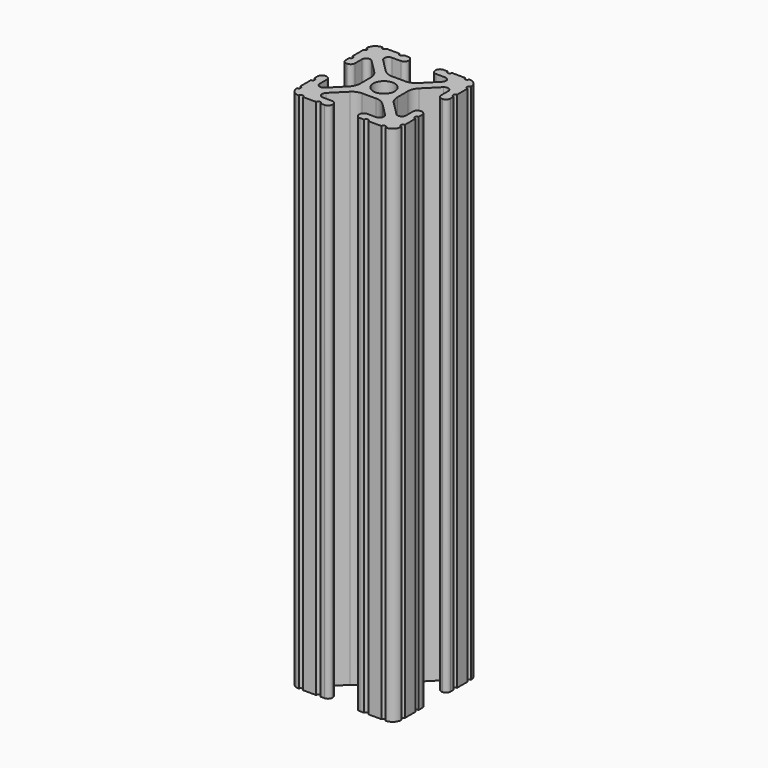
from build123d import *

# Parameters (mm, degrees)
SKETCH097_R   = 2.6035
EXTRUDE_DEPTH = 127


with BuildPart() as part:
    # Sketch097 → Extrude (new body)
    with BuildSketch(Plane.XY):
        with BuildLine():
            ThreePointArc((12.7, 6.333084), (12.192, 5.825084), (12.7, 5.317084))
            Line((12.7, 4.287469), (12.7, 5.317084))
            ThreePointArc((11.650988, 3.238457), (12.392751, 3.545706), (12.7, 4.287469))
            Line((11.539212, 3.238457), (11.650988, 3.238457))
            ThreePointArc((10.4902, 4.287469), (10.797449, 3.545706), (11.539212, 3.238457))
            Line((10.4902, 6.402089), (10.4902, 4.287469))
            ThreePointArc((10.4902, 6.402089), (9.856505, 7.351068), (8.737131, 7.129409))
            Line((5.441006, 3.840816), (8.737131, 7.129409))
            ThreePointArc((5.441006, 3.840816), (4.750878, 2.809883), (4.5085, 1.593186))
            Line((4.5085, -1.593186), (4.5085, 1.593186))
            ThreePointArc((4.5085, -1.593186), (4.750878, -2.809883), (5.441006, -3.840816))
            Line((8.737131, -7.129409), (5.441006, -3.840816))
            ThreePointArc((8.737131, -7.129409), (9.856505, -7.351068), (10.4902, -6.402089))
            Line((10.4902, -4.287469), (10.4902, -6.402089))
            ThreePointArc((11.539212, -3.238457), (10.797449, -3.545706), (10.4902, -4.287469))
            Line((11.650988, -3.238457), (11.539212, -3.238457))
            ThreePointArc((12.7, -4.287469), (12.392751, -3.545706), (11.650988, -3.238457))
            Line((12.7, -5.317084), (12.7, -4.287469))
            ThreePointArc((12.7, -5.317084), (12.192, -5.825084), (12.7, -6.333084))
            Line((12.7, -9.5504), (12.7, -6.333084))
            ThreePointArc((12.7, -9.5504), (12.192, -10.058323), (12.699847, -10.5664))
            ThreePointArc((10.566443, -12.699848), (12.082538, -12.082507), (12.699847, -10.5664))
            ThreePointArc((10.566443, -12.699848), (10.058367, -12.192), (9.550443, -12.7))
            Line((6.333127, -12.7), (9.550443, -12.7))
            ThreePointArc((6.333127, -12.7), (5.825127, -12.192), (5.317127, -12.7))
            Line((4.287512, -12.7), (5.317127, -12.7))
            ThreePointArc((3.2385, -11.650988), (3.545749, -12.392751), (4.287512, -12.7))
            Line((3.2385, -11.539212), (3.2385, -11.650988))
            ThreePointArc((4.287512, -10.4902), (3.545749, -10.797449), (3.2385, -11.539212))
            Line((6.416408, -10.4902), (4.287512, -10.4902))
            ThreePointArc((6.416408, -10.4902), (7.414731, -9.822813), (7.17965, -8.645193))
            Line((3.95227, -5.42369), (7.17965, -8.645193))
            ThreePointArc((3.95227, -5.42369), (2.922936, -4.736929), (1.709254, -4.4958))
            Line((-1.709254, -4.4958), (1.709254, -4.4958))
            ThreePointArc((-1.709254, -4.4958), (-2.922936, -4.736929), (-3.95227, -5.42369))
            Line((-7.17965, -8.645193), (-3.95227, -5.42369))
            ThreePointArc((-7.17965, -8.645193), (-7.414731, -9.822813), (-6.416408, -10.4902))
            Line((-4.287512, -10.4902), (-6.416408, -10.4902))
            ThreePointArc((-3.2385, -11.539212), (-3.545749, -10.797449), (-4.287512, -10.4902))
            Line((-3.2385, -11.650988), (-3.2385, -11.539212))
            ThreePointArc((-4.287512, -12.7), (-3.545749, -12.392751), (-3.2385, -11.650988))
            Line((-5.317127, -12.7), (-4.287512, -12.7))
            ThreePointArc((-5.317127, -12.7), (-5.825127, -12.192), (-6.333127, -12.7))
            Line((-9.550443, -12.7), (-6.333127, -12.7))
            ThreePointArc((-9.550443, -12.7), (-10.058367, -12.192), (-10.566443, -12.699848))
            ThreePointArc((-12.699847, -10.5664), (-12.082538, -12.082507), (-10.566443, -12.699848))
            ThreePointArc((-12.699847, -10.5664), (-12.192, -10.058323), (-12.7, -9.5504))
            Line((-12.7, -6.333084), (-12.7, -9.5504))
            ThreePointArc((-12.7, -6.333084), (-12.192, -5.825084), (-12.7, -5.317084))
            Line((-12.7, -4.287469), (-12.7, -5.317084))
            ThreePointArc((-11.650988, -3.238457), (-12.392751, -3.545706), (-12.7, -4.287469))
            Line((-11.539212, -3.238457), (-11.650988, -3.238457))
            ThreePointArc((-10.4902, -4.287469), (-10.797449, -3.545706), (-11.539212, -3.238457))
            Line((-10.4902, -6.402089), (-10.4902, -4.287469))
            ThreePointArc((-10.4902, -6.402089), (-9.856505, -7.351068), (-8.737131, -7.129409))
            Line((-5.441006, -3.840816), (-8.737131, -7.129409))
            ThreePointArc((-5.441006, -3.840816), (-4.750878, -2.809883), (-4.5085, -1.593186))
            Line((-4.5085, 1.593186), (-4.5085, -1.593186))
            ThreePointArc((-4.5085, 1.593186), (-4.750878, 2.809883), (-5.441006, 3.840816))
            Line((-8.737131, 7.129409), (-5.441006, 3.840816))
            ThreePointArc((-8.737131, 7.129409), (-9.856505, 7.351068), (-10.4902, 6.402089))
            Line((-10.4902, 4.287469), (-10.4902, 6.402089))
            ThreePointArc((-11.539212, 3.238457), (-10.797449, 3.545706), (-10.4902, 4.287469))
            Line((-11.650988, 3.238457), (-11.539212, 3.238457))
            ThreePointArc((-12.7, 4.287469), (-12.392751, 3.545706), (-11.650988, 3.238457))
            Line((-12.7, 5.317084), (-12.7, 4.287469))
            ThreePointArc((-12.7, 5.317084), (-12.192, 5.825084), (-12.7, 6.333084))
            Line((-12.7, 9.5504), (-12.7, 6.333084))
            ThreePointArc((-12.7, 9.5504), (-12.192, 10.058323), (-12.699847, 10.5664))
            ThreePointArc((-10.566443, 12.699848), (-12.082538, 12.082507), (-12.699847, 10.5664))
            ThreePointArc((-10.566443, 12.699848), (-10.058367, 12.192), (-9.550443, 12.7))
            Line((-6.333127, 12.7), (-9.550443, 12.7))
            ThreePointArc((-6.333127, 12.7), (-5.825127, 12.192), (-5.317127, 12.7))
            Line((-4.287512, 12.7), (-5.317127, 12.7))
            ThreePointArc((-3.2385, 11.650988), (-3.545749, 12.392751), (-4.287512, 12.7))
            Line((-3.2385, 11.539212), (-3.2385, 11.650988))
            ThreePointArc((-4.287512, 10.4902), (-3.545749, 10.797449), (-3.2385, 11.539212))
            Line((-6.476789, 10.4902), (-4.287512, 10.4902))
            ThreePointArc((-6.476789, 10.4902), (-7.432222, 9.851404), (-7.207036, 8.724371))
            Line((-3.898273, 5.423169), (-7.207036, 8.724371))
            ThreePointArc((-3.898273, 5.423169), (-2.86912, 4.736788), (-1.655778, 4.4958))
            Line((1.655778, 4.4958), (-1.655778, 4.4958))
            ThreePointArc((1.655778, 4.4958), (2.86912, 4.736788), (3.898273, 5.423169))
            Line((7.207036, 8.724371), (3.898273, 5.423169))
            ThreePointArc((7.207036, 8.724371), (7.432222, 9.851404), (6.476789, 10.4902))
            Line((4.287512, 10.4902), (6.476789, 10.4902))
            ThreePointArc((3.2385, 11.539212), (3.545749, 10.797449), (4.287512, 10.4902))
            Line((3.2385, 11.650988), (3.2385, 11.539212))
            ThreePointArc((4.287512, 12.7), (3.545749, 12.392751), (3.2385, 11.650988))
            Line((5.317127, 12.7), (4.287512, 12.7))
            ThreePointArc((5.317127, 12.7), (5.825127, 12.192), (6.333127, 12.7))
            Line((9.550443, 12.7), (6.333127, 12.7))
            ThreePointArc((9.550443, 12.7), (10.058367, 12.192), (10.566443, 12.699848))
            ThreePointArc((12.699847, 10.5664), (12.082538, 12.082507), (10.566443, 12.699848))
            ThreePointArc((12.699847, 10.5664), (12.192, 10.058323), (12.7, 9.5504))
            Line((12.7, 6.333084), (12.7, 9.5504))
        make_face()
        Circle(SKETCH097_R, mode=Mode.SUBTRACT)
    extrude(amount=EXTRUDE_DEPTH)


solid = part.part
